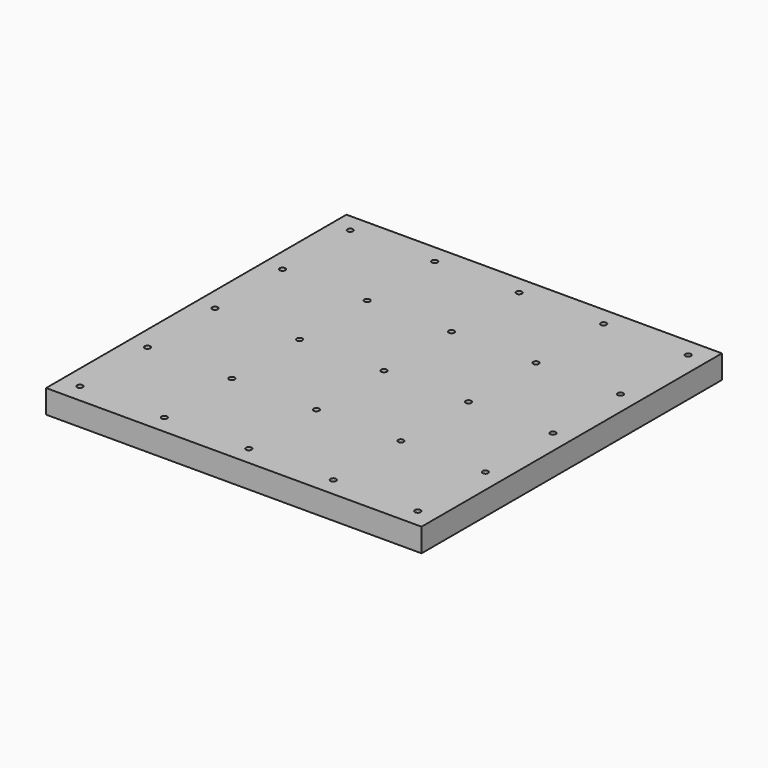
from build123d import *

# Parameters (mm, degrees)
SKETCH_W                     = 400
SKETCH_H                     = 400
PAD_DEPTH                    = 25
SKETCH002_R                  = 3.01
POCKET_DEPTH                 = 1157.476165
SKETCH002_LINEARPATTERN_2_R  = 3.01
POCKET_LINEARPATTERN_2_DEPTH = 1157.476165
SKETCH002_LINEARPATTERN_3_R  = 3.01
POCKET_LINEARPATTERN_3_DEPTH = 1157.476165
SKETCH002_LINEARPATTERN_4_R  = 3.01
POCKET_LINEARPATTERN_4_DEPTH = 1157.476165
SKETCH002_LINEARPATTERN_5_R  = 3.01
POCKET_LINEARPATTERN_5_DEPTH = 1157.476165
LINEARPATTERN001_COUNT       = 5
LINEARPATTERN001_PITCH       = 90


with BuildPart() as part:
    # Sketch → Pad (new body)
    with BuildSketch(Plane.XY):
        with Locations((200, 200)):
            Rectangle(SKETCH_W, SKETCH_H)
    extrude(amount=PAD_DEPTH)

    # Sketch002 (on Face6 of Pad) → Pocket (cut, through all)
    with BuildSketch(Plane.XY.offset(25)):
        with Locations((20, 20)):
            Circle(SKETCH002_R)
    pocket = extrude(amount=-POCKET_DEPTH, mode=Mode.SUBTRACT)

    # Sketch002 LinearPattern 2 → Pocket LinearPattern 2 (cut, through all)
    with BuildSketch(Plane(origin=(90, 0, 25), x_dir=(1, 0, 0), z_dir=(0, 0, 1))):
        with Locations((20, 20)):
            Circle(SKETCH002_LINEARPATTERN_2_R)
    pocket_linearpattern_2 = extrude(amount=-POCKET_LINEARPATTERN_2_DEPTH, mode=Mode.SUBTRACT)

    # Sketch002 LinearPattern 3 → Pocket LinearPattern 3 (cut, through all)
    with BuildSketch(Plane(origin=(180, 0, 25), x_dir=(1, 0, 0), z_dir=(0, 0, 1))):
        with Locations((20, 20)):
            Circle(SKETCH002_LINEARPATTERN_3_R)
    pocket_linearpattern_3 = extrude(amount=-POCKET_LINEARPATTERN_3_DEPTH, mode=Mode.SUBTRACT)

    # Sketch002 LinearPattern 4 → Pocket LinearPattern 4 (cut, through all)
    with BuildSketch(Plane(origin=(270, 0, 25), x_dir=(1, 0, 0), z_dir=(0, 0, 1))):
        with Locations((20, 20)):
            Circle(SKETCH002_LINEARPATTERN_4_R)
    pocket_linearpattern_4 = extrude(amount=-POCKET_LINEARPATTERN_4_DEPTH, mode=Mode.SUBTRACT)

    # Sketch002 LinearPattern 5 → Pocket LinearPattern 5 (cut, through all)
    with BuildSketch(Plane(origin=(360, 0, 25), x_dir=(1, 0, 0), z_dir=(0, 0, 1))):
        with Locations((20, 20)):
            Circle(SKETCH002_LINEARPATTERN_5_R)
    pocket_linearpattern_5 = extrude(amount=-POCKET_LINEARPATTERN_5_DEPTH, mode=Mode.SUBTRACT)

    # LinearPattern001: Pocket, Pocket LinearPattern 2, Pocket LinearPattern 3, Pocket LinearPattern 4, Pocket LinearPattern 5 ×5
    with Locations(*[(0, i * LINEARPATTERN001_PITCH, 0) for i in range(1, LINEARPATTERN001_COUNT)]):
        add(pocket, mode=Mode.SUBTRACT)
        add(pocket_linearpattern_2, mode=Mode.SUBTRACT)
        add(pocket_linearpattern_3, mode=Mode.SUBTRACT)
        add(pocket_linearpattern_4, mode=Mode.SUBTRACT)
        add(pocket_linearpattern_5, mode=Mode.SUBTRACT)


with BuildPart() as part_1:
    # Clone placement: moved
    add(part.part.moved(Location((10, 10, -26))))


solid = part_1.part
